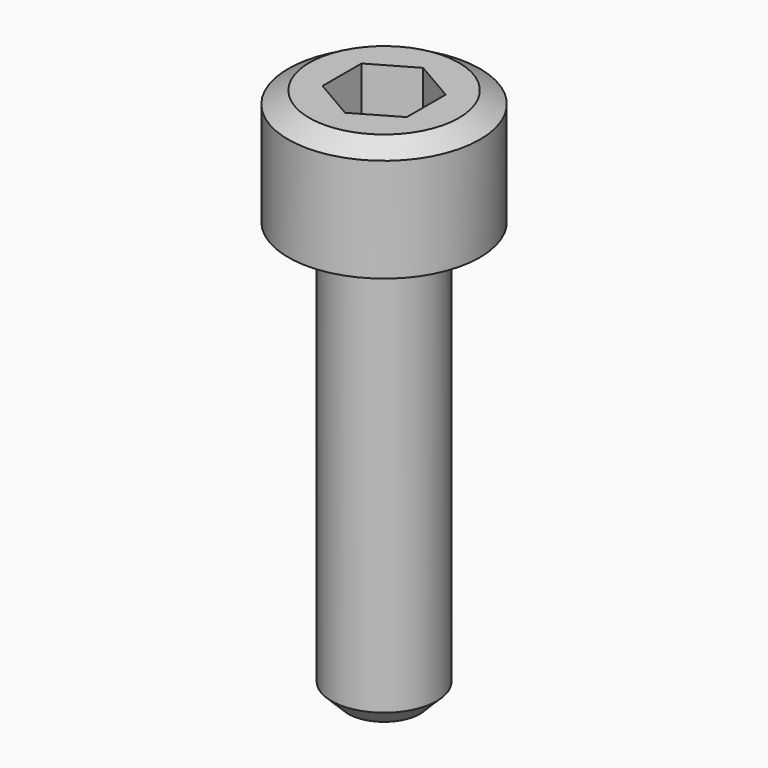
from build123d import *

# Parameters (mm, degrees)
F0_R     = 4.55
F1_DEPTH = 5.5
F2_R     = 2.5
F3_DEPTH = 20
F5_DEPTH = 2.5
F6_SIZE2 = 0.5773502692
F6_SIZE  = 1
F7_SIZE  = 0.8


with BuildPart() as f1:
    # F0 (on Top) → F1 (new body)
    with BuildSketch(Plane.XY):
        Circle(F0_R)
    extrude(amount=-F1_DEPTH)

    # F2 (on face) → F3 (join)
    with BuildSketch(Plane(origin=(0, 0, -5.5), x_dir=(1, 0, 0), z_dir=(0, 0, -1))):
        Circle(F2_R)
    extrude(amount=F3_DEPTH)

    # F4 (on face) → F5 (cut)
    with BuildSketch(Plane.XY):
        Polygon((-0.0040677853, -2.3093974943), (1.9979630048, -1.1582215525), (2.0020307901, 1.1511759417), (0.0040677853, 2.3093974943), (-1.9979630048, 1.1582215525), (-2.0020307901, -1.1511759417), align=None)
    extrude(amount=-F5_DEPTH, mode=Mode.SUBTRACT)

    # F6
    f6_edges = [f1.edges().sort_by_distance(p)[0] for p in [
        (-4.55, 0, 0),
    ]]
    f6_side = f1.faces().sort_by_distance((-4.421307, 0, 0))[0]
    chamfer(f6_edges, length=F6_SIZE, length2=F6_SIZE2, reference=f6_side)

    # F7
    f7_edges = [f1.edges().sort_by_distance(p)[0] for p in [
        (-2.5, 0, -25.5),
    ]]
    chamfer(f7_edges, length=F7_SIZE)


solid = f1.part
